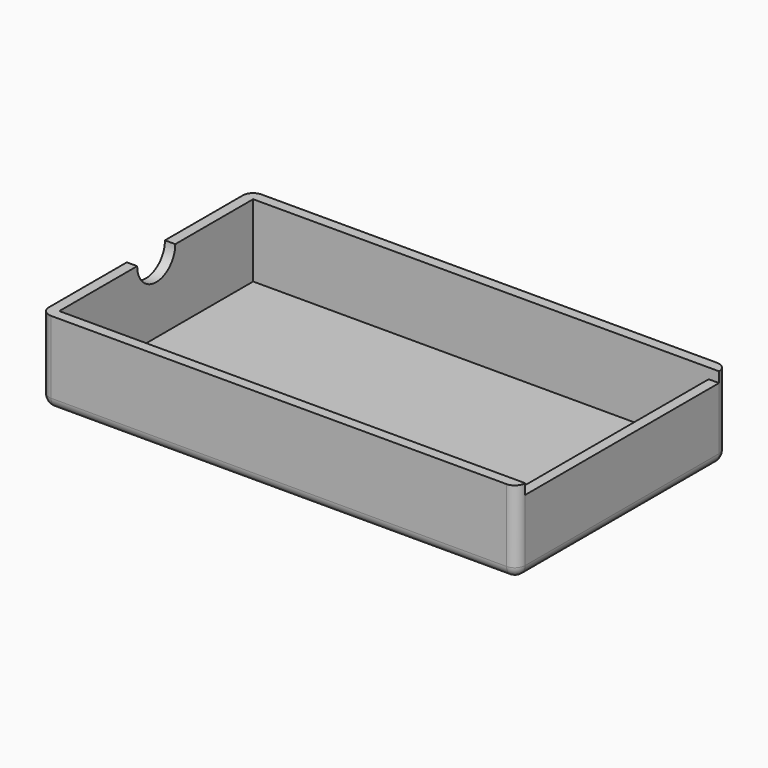
from build123d import *

# Parameters (mm, degrees)
SKETCH016_W     = 44
SKETCH016_H     = 23.4
PAD009_DEPTH    = 7
THICKNESS003_T  = 1
SKETCH017_W     = 23.4
SKETCH017_H     = 1
POCKET005_DEPTH = 1
SKETCH018_R     = 2.3
POCKET006_DEPTH = 1


with BuildPart() as part:
    # Sketch016 → Pad009 (new body)
    with BuildSketch(Plane.XY):
        Rectangle(SKETCH016_W, SKETCH016_H)
    extrude(amount=PAD009_DEPTH)

    # Thickness003
    thickness003_openings = [part.faces().sort_by_distance(p)[0] for p in [
        (0, 0, 7),
    ]]
    offset(amount=THICKNESS003_T, openings=thickness003_openings)

    # Sketch017 (on Face7 of Thickness003) → Pocket005 (cut)
    with BuildSketch(Plane.YZ.offset(23)):
        with Locations((0, 6.5)):
            Rectangle(SKETCH017_W, SKETCH017_H)
    extrude(amount=-POCKET005_DEPTH, mode=Mode.SUBTRACT)

    # Sketch018 (on Face15 of Pocket005) → Pocket006 (cut)
    with BuildSketch(Plane(origin=(-23, 0, 0), x_dir=(0, -1, 0), z_dir=(-1, 0, 0))):
        with Locations((0, 7)):
            Circle(SKETCH018_R)
    extrude(amount=-POCKET006_DEPTH, mode=Mode.SUBTRACT)


solid = part.part
